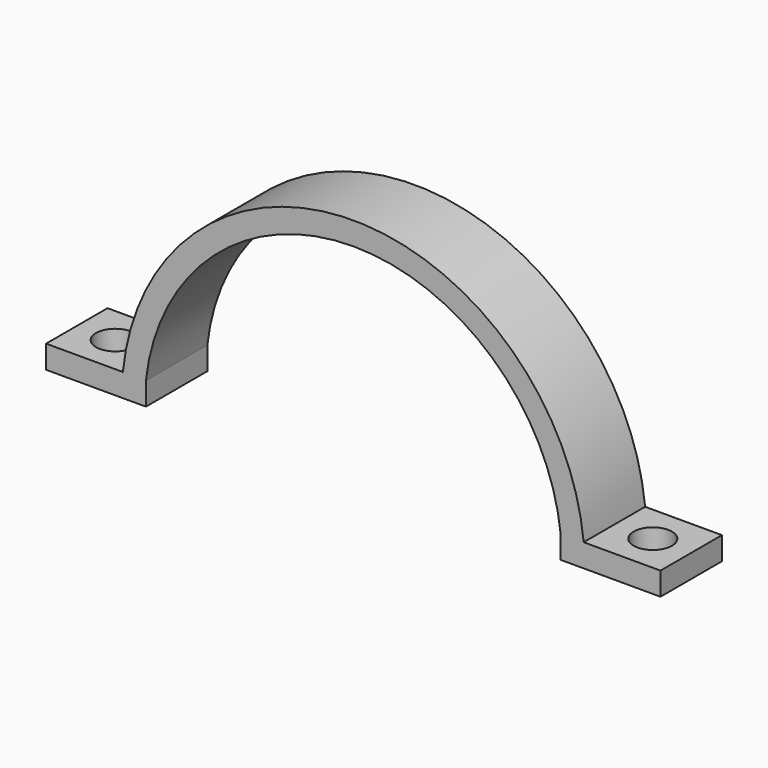
from build123d import *

# Parameters (mm, degrees)
PAD_DEPTH    = 10
SKETCH001_R  = 2.5
POCKET_DEPTH = 3


with BuildPart() as part:
    # Sketch → Pad (new body)
    with BuildSketch(Plane.XZ):
        with BuildLine():
            ThreePointArc((30, 3), (0, 30.149627), (-30, 3))
            Line((-30, 3), (-40, 3))
            Line((-40, 3), (-40, 0))
            Line((-40, 0), (-27, 0))
            Line((-27, 3), (-27, 0))
            ThreePointArc((27, 3), (0, 27.166155), (-27, 3))
            Line((27, 3), (27, 0))
            Line((27, 0), (40, 0))
            Line((40, 0), (40, 3))
            Line((40, 3), (30, 3))
        make_face()
    extrude(amount=PAD_DEPTH)

    # Sketch001 (on Face6 of Pad) → Pocket (cut)
    with BuildSketch(Plane(origin=(0, 0, 3), x_dir=(-1, 0, 0), z_dir=(0, 0, 1))):
        with Locations((-35, 5)):
            Circle(SKETCH001_R)
        with Locations((35, 5)):
            Circle(SKETCH001_R)
    extrude(amount=-POCKET_DEPTH, mode=Mode.SUBTRACT)


solid = part.part
